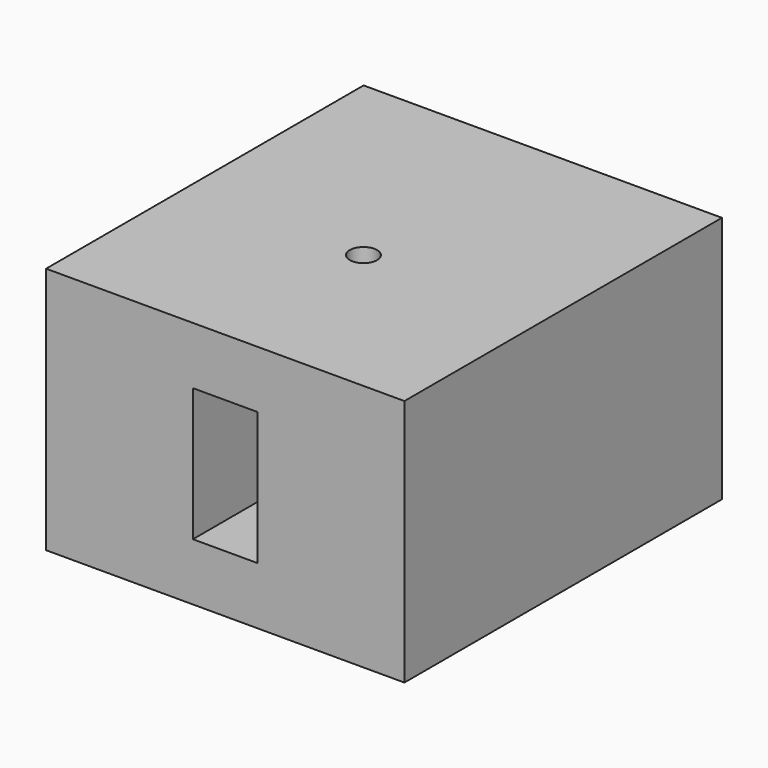
from build123d import *

# Parameters (mm, degrees)
F0_W     = 114.6654933691
F0_H     = 79.3122425675
F0_W_2   = 20.7002647221
F0_H_2   = 42.5634607673
F1_DEPTH = 127
F3_D     = 8.7376


with BuildPart() as f1:
    # F0 (on Front) → F1 (new body)
    with BuildSketch(Plane.XZ):
        Rectangle(F0_W, F0_H)
        Rectangle(F0_W_2, F0_H_2, mode=Mode.SUBTRACT)
    extrude(amount=F1_DEPTH)

    # F3 (through all)
    with Locations(Plane.XY.offset(39.6561212838)):
        with Locations((0, -71.7102736235)):
            Hole(F3_D / 2)


solid = f1.part
